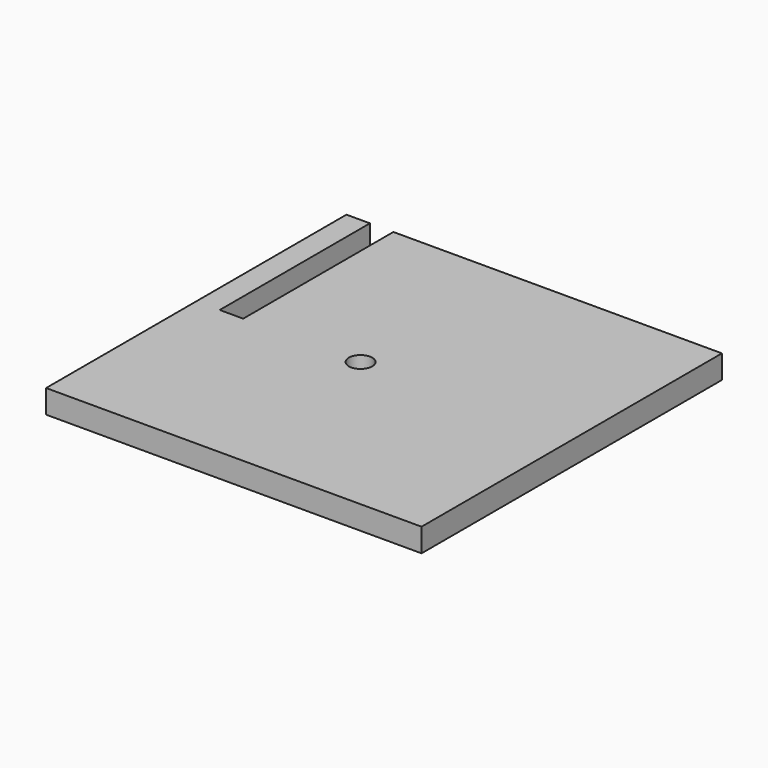
from build123d import *

# Parameters (mm, degrees)
F0_W     = 101.6
F0_H     = 101.6
F1_DEPTH = 6.35
F2_R     = 3.175
F3_DEPTH = 6.351
F4_W     = 6.35
F4_H     = 50.8
F5_DEPTH = 6.351


with BuildPart() as f1:
    # F0 (on Top) → F1 (new body)
    with BuildSketch(Plane.XY):
        Rectangle(F0_W, F0_H)
    extrude(amount=F1_DEPTH)

    # F2 (on Top) → F3 (cut, through all)
    with BuildSketch(Plane.XY):
        with Locations((-6.35, 0)):
            Circle(F2_R)
    extrude(amount=F3_DEPTH, mode=Mode.SUBTRACT)

    # F4 (on Top) → F5 (cut, through all)
    with BuildSketch(Plane.XY):
        with Locations((-41.275, 25.4)):
            Rectangle(F4_W, F4_H)
    extrude(amount=F5_DEPTH, mode=Mode.SUBTRACT)


solid = f1.part
